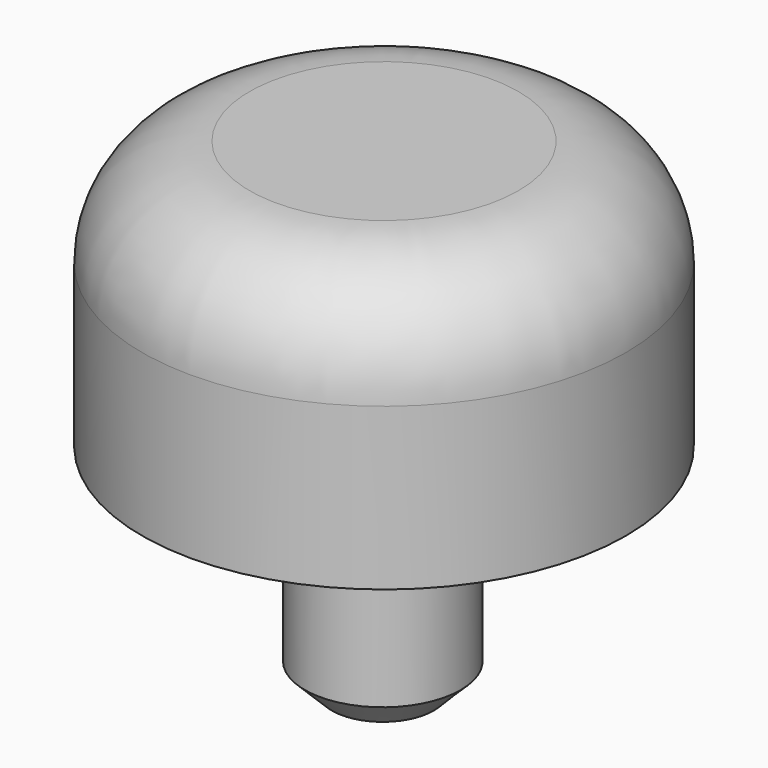
from build123d import *

# Parameters (mm, degrees)
SKETCH_R     = 2.9
PAD_DEPTH    = 8
SKETCH001_R  = 9
PAD001_DEPTH = 10
FILLET_R     = 4
CHAMFER_SIZE = 1


with BuildPart() as part:
    # Sketch → Pad (new body)
    with BuildSketch(Plane.XY):
        Circle(SKETCH_R)
    extrude(amount=PAD_DEPTH)

    # Sketch001 (on Face3 of Pad) → Pad001 (join)
    with BuildSketch(Plane.XY.offset(8)):
        with Locations((-0.011619, 0.070584)):
            Circle(SKETCH001_R)
    extrude(amount=PAD001_DEPTH)

    # Fillet
    fillet_edges = [part.edges().sort_by_distance(p)[0] for p in [
        (-9.011619, 0.070584, 18),
    ]]
    fillet(fillet_edges, radius=FILLET_R)

    # Chamfer
    chamfer_edges = [part.edges().sort_by_distance(p)[0] for p in [
        (-2.9, 0, 0),
    ]]
    chamfer(chamfer_edges, length=CHAMFER_SIZE)


solid = part.part
